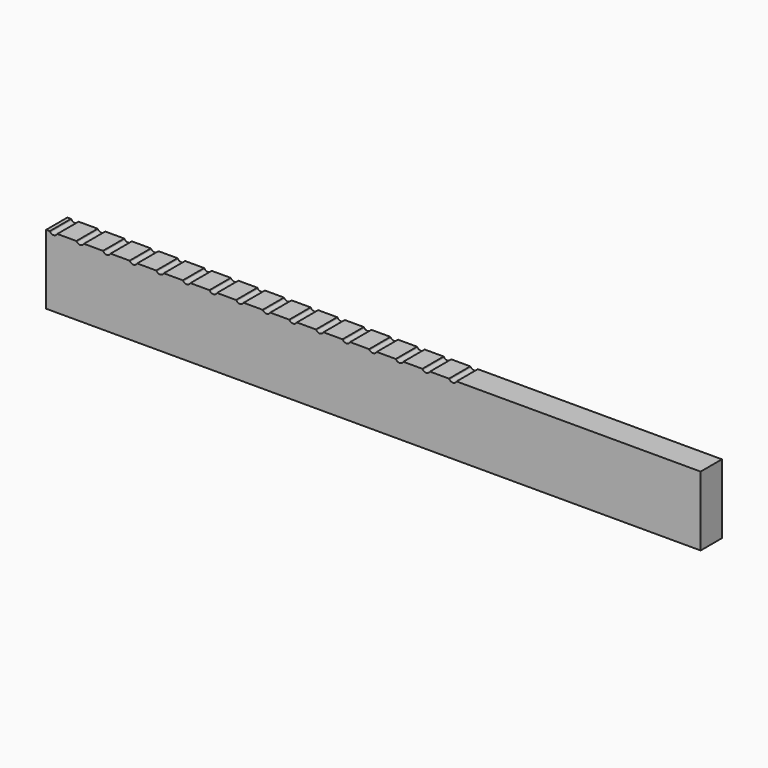
from build123d import *

# Parameters (mm, degrees)
F0_W     = 624.656601
F0_H     = 71.374
F1_DEPTH = 76.2
F2_SIZE  = 5.08
F4_DEPTH = 25.4


with BuildPart() as f1:
    # F0 (on Front) → F1 (new body)
    with BuildSketch(Plane.XZ):
        with Locations((-16.099394, -35.687)):
            Rectangle(F0_W, F0_H)
    extrude(amount=F1_DEPTH)

    # F2
    f2_edges = [f1.edges().sort_by_distance(p)[0] for p in [
        (-16.099394, -76.2, 0),
        (-16.099394, 0, 0),
    ]]
    chamfer(f2_edges, length=F2_SIZE)

    # F3 (on face) → F4 (intersect)
    with BuildSketch(Plane.XZ.offset(76.2)):
        with BuildLine():
            ThreePointArc((-324.387073, -5.779197), (-324.651668, -5.434988), (-324.901614, -5.08))
            Line((-324.901614, -5.08), (-328.427695, -5.08))
            Line((-328.427695, -5.08), (-328.427695, -71.374))
            Line((-328.427695, -71.374), (296.228906, -71.374))
            Line((296.228906, -71.374), (296.228906, -5.08))
            Line((296.228906, -5.08), (63.307897, -5.08))
            ThreePointArc((63.307897, -5.08), (63.057951, -5.434988), (62.793356, -5.779197))
            ThreePointArc((62.793356, -5.779197), (59.703141, -7.261437), (56.612927, -5.779197))
            ThreePointArc((56.612927, -5.779197), (56.348332, -5.434988), (56.098386, -5.08))
            Line((56.098386, -5.08), (37.907897, -5.08))
            ThreePointArc((37.907897, -5.08), (37.657951, -5.434988), (37.393356, -5.779197))
            ThreePointArc((37.393356, -5.779197), (34.303141, -7.261437), (31.212927, -5.779197))
            ThreePointArc((31.212927, -5.779197), (30.948332, -5.434988), (30.698386, -5.08))
            Line((30.698386, -5.08), (12.507897, -5.08))
            ThreePointArc((12.507897, -5.08), (12.257951, -5.434988), (11.993356, -5.779197))
            ThreePointArc((11.993356, -5.779197), (8.903141, -7.261437), (5.812927, -5.779197))
            ThreePointArc((5.812927, -5.779197), (5.548332, -5.434988), (5.298386, -5.08))
            Line((5.298386, -5.08), (-12.892103, -5.08))
            ThreePointArc((-12.892103, -5.08), (-13.142049, -5.434988), (-13.406644, -5.779197))
            ThreePointArc((-13.406644, -5.779197), (-16.496859, -7.261437), (-19.587073, -5.779197))
            ThreePointArc((-19.587073, -5.779197), (-19.851668, -5.434988), (-20.101614, -5.08))
            Line((-20.101614, -5.08), (-38.292103, -5.08))
            ThreePointArc((-38.292103, -5.08), (-38.542049, -5.434988), (-38.806644, -5.779197))
            ThreePointArc((-38.806644, -5.779197), (-41.896859, -7.261437), (-44.987073, -5.779197))
            ThreePointArc((-44.987073, -5.779197), (-45.251668, -5.434988), (-45.501614, -5.08))
            Line((-45.501614, -5.08), (-63.692103, -5.08))
            ThreePointArc((-63.692103, -5.08), (-63.942049, -5.434988), (-64.206644, -5.779197))
            ThreePointArc((-64.206644, -5.779197), (-67.296859, -7.261437), (-70.387073, -5.779197))
            ThreePointArc((-70.387073, -5.779197), (-70.651668, -5.434988), (-70.901614, -5.08))
            Line((-70.901614, -5.08), (-89.092103, -5.08))
            ThreePointArc((-89.092103, -5.08), (-89.342049, -5.434988), (-89.606644, -5.779197))
            ThreePointArc((-89.606644, -5.779197), (-92.696859, -7.261437), (-95.787073, -5.779197))
            ThreePointArc((-95.787073, -5.779197), (-96.051668, -5.434988), (-96.301614, -5.08))
            Line((-96.301614, -5.08), (-114.492103, -5.08))
            ThreePointArc((-114.492103, -5.08), (-114.742049, -5.434988), (-115.006644, -5.779197))
            ThreePointArc((-115.006644, -5.779197), (-118.096859, -7.261437), (-121.187073, -5.779197))
            ThreePointArc((-121.187073, -5.779197), (-121.451668, -5.434988), (-121.701614, -5.08))
            Line((-121.701614, -5.08), (-139.892103, -5.08))
            ThreePointArc((-139.892103, -5.08), (-140.142049, -5.434988), (-140.406644, -5.779197))
            ThreePointArc((-140.406644, -5.779197), (-143.496859, -7.261437), (-146.587073, -5.779197))
            ThreePointArc((-146.587073, -5.779197), (-146.851668, -5.434988), (-147.101614, -5.08))
            Line((-147.101614, -5.08), (-165.292103, -5.08))
            ThreePointArc((-165.292103, -5.08), (-165.542049, -5.434988), (-165.806644, -5.779197))
            ThreePointArc((-165.806644, -5.779197), (-168.896859, -7.261437), (-171.987073, -5.779197))
            ThreePointArc((-171.987073, -5.779197), (-172.251668, -5.434988), (-172.501614, -5.08))
            Line((-172.501614, -5.08), (-190.692103, -5.08))
            ThreePointArc((-190.692103, -5.08), (-190.942049, -5.434988), (-191.206644, -5.779197))
            ThreePointArc((-191.206644, -5.779197), (-194.296859, -7.261437), (-197.387073, -5.779197))
            ThreePointArc((-197.387073, -5.779197), (-197.651668, -5.434988), (-197.901614, -5.08))
            Line((-197.901614, -5.08), (-216.092103, -5.08))
            ThreePointArc((-216.092103, -5.08), (-216.342049, -5.434988), (-216.606644, -5.779197))
            ThreePointArc((-216.606644, -5.779197), (-219.696859, -7.261437), (-222.787073, -5.779197))
            ThreePointArc((-222.787073, -5.779197), (-223.051668, -5.434988), (-223.301614, -5.08))
            Line((-223.301614, -5.08), (-241.492103, -5.08))
            ThreePointArc((-241.492103, -5.08), (-241.742049, -5.434988), (-242.006644, -5.779197))
            ThreePointArc((-242.006644, -5.779197), (-245.096859, -7.261437), (-248.187073, -5.779197))
            ThreePointArc((-248.187073, -5.779197), (-248.451668, -5.434988), (-248.701614, -5.08))
            Line((-248.701614, -5.08), (-266.892103, -5.08))
            ThreePointArc((-266.892103, -5.08), (-267.142049, -5.434988), (-267.406644, -5.779197))
            ThreePointArc((-267.406644, -5.779197), (-270.496859, -7.261437), (-273.587073, -5.779197))
            ThreePointArc((-273.587073, -5.779197), (-273.851668, -5.434988), (-274.101614, -5.08))
            Line((-274.101614, -5.08), (-292.292103, -5.08))
            ThreePointArc((-292.292103, -5.08), (-292.542049, -5.434988), (-292.806644, -5.779197))
            ThreePointArc((-292.806644, -5.779197), (-295.896859, -7.261437), (-298.987073, -5.779197))
            ThreePointArc((-298.987073, -5.779197), (-299.251668, -5.434988), (-299.501614, -5.08))
            Line((-299.501614, -5.08), (-317.692103, -5.08))
            ThreePointArc((-317.692103, -5.08), (-317.942049, -5.434988), (-318.206644, -5.779197))
            ThreePointArc((-318.206644, -5.779197), (-321.296859, -7.261437), (-324.387073, -5.779197))
        make_face()
    extrude(amount=-F4_DEPTH, mode=Mode.INTERSECT)


solid = f1.part
